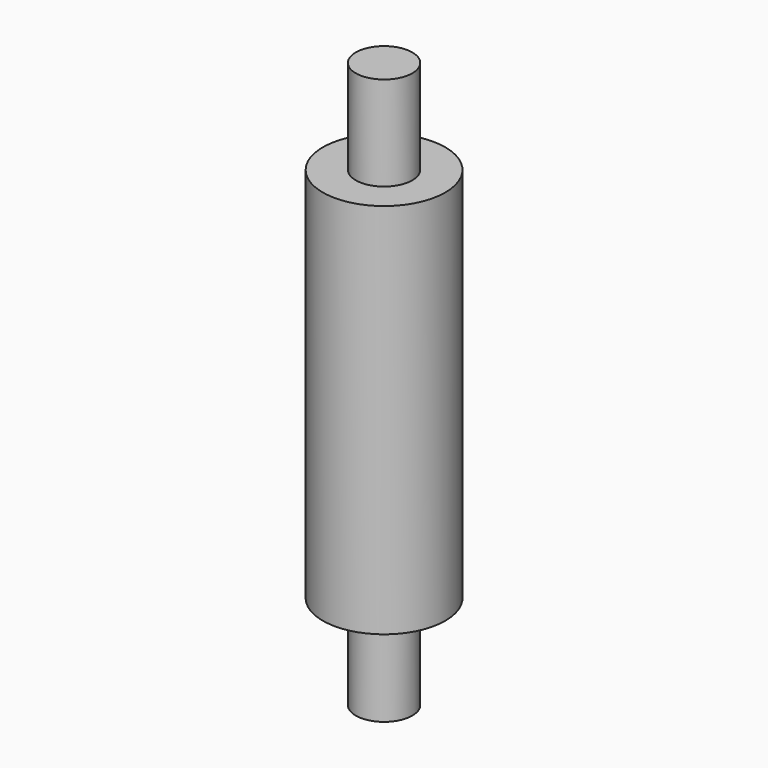
from build123d import *

# Parameters (mm, degrees)
F0_R     = 32.5
F1_DEPTH = 200
F2_R     = 15
F3_DEPTH = 50
F4_DEPTH = 250


with BuildPart() as f1:
    # F0 (on Top) → F1 (new body)
    with BuildSketch(Plane.XY):
        Circle(F0_R)
    extrude(amount=F1_DEPTH)

    # F2 (on face) → F3 (join)
    with BuildSketch(Plane.XY.offset(200)):
        Circle(F2_R)
    extrude(amount=F3_DEPTH)

    # F2 (on face) → F4 (join)
    with BuildSketch(Plane.XY.offset(200)):
        Circle(F2_R)
    extrude(amount=-F4_DEPTH)


solid = f1.part
